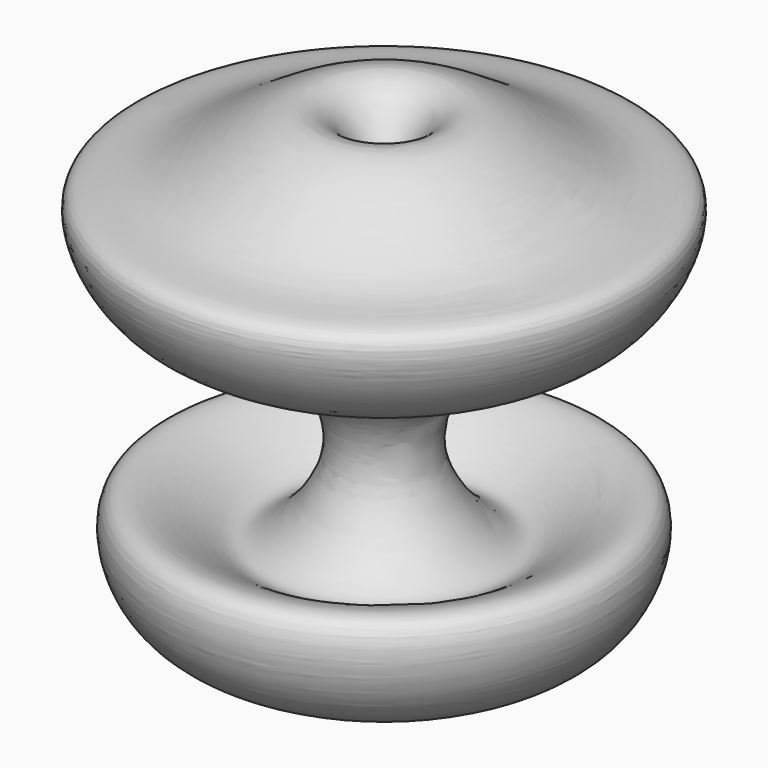
from build123d import *


with BuildPart() as f1:
    # F0 (on Front) → F1 (revolve)
    with BuildSketch(Plane.XZ):
        with BuildLine():
            add(Edge.make_bspline(
                [(0, -50.4856072366), (-1.2576355687, -52.135901233), (-5.5647349527, -57.7877613047), (-56.7599231513, -55.6334919668), (-60.3941128713, -12.6816570182), (-34.59465762, -29.642676116), (-26.9250470134, -34.8105142148), (-6.2687743919, -12.6648892447), (-20.6206973831, 15.8187575863), (-57.8671770735, 18.2969365876), (-69.0571491764, 50.5211402761), (-46.6420154059, 45.4804417852), (-14.2726122359, 77.2298155517), (-4.5763414387, 53.8094488903), (0, 42.7557565272)],
                knots=[0, 0, 0, 0, 0.0479498578, 0.1642167318, 0.2493311019, 0.3281477935, 0.3789093326, 0.4634958522, 0.5511203702, 0.6547303419, 0.7359011109, 0.8044135394, 0.9076892093, 1, 1, 1, 1], degree=3))
            Line((0, -50.4856072366), (0, 42.7557565272))
        make_face()
    revolve(axis=Axis((0, 0, 2.5203227997), (0, 0, -1)))


solid = f1.part
